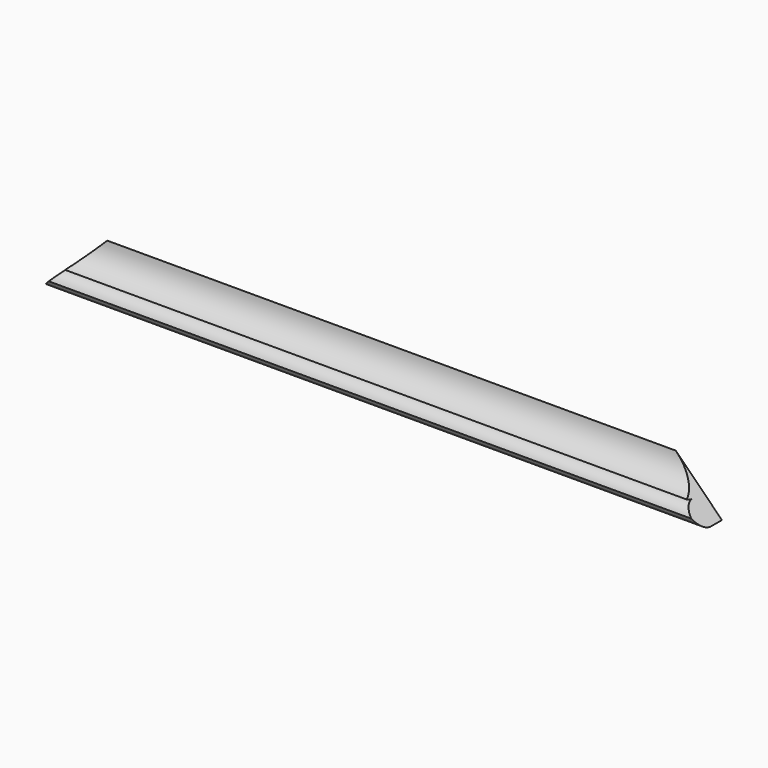
from build123d import *

# Parameters (mm, degrees)
SKETCH008_W          = 358
SKETCH008_H          = 25
PAD004_DEPTH         = 15
FRAME45CUT003_SIZE   = 24.99
ROUTERPATTERN_R      = 15
ROUTER_DEPTH         = 179.001
ROUTER_DEPTH_BACK    = 179.001
ROUTER004_DEPTH      = 179.001
ROUTER004_DEPTH_BACK = 179.001
ROUTER010_DEPTH      = 179.001
ROUTER010_DEPTH_BACK = 179.001


with BuildPart() as part:
    # Sketch008 → Pad004 (new body)
    with BuildSketch(Plane(origin=(21, -33, 23), x_dir=(1, 0, 0), z_dir=(0, -1, 0))):
        with Locations((179, 12.5)):
            Rectangle(SKETCH008_W, SKETCH008_H)
    extrude(amount=-PAD004_DEPTH)

    # Frame45Cut003
    frame45cut003_edges = [part.edges().sort_by_distance(p)[0] for p in [
        (21, -25.5, 48),
        (379, -25.5, 48),
    ]]
    chamfer(frame45cut003_edges, length=FRAME45CUT003_SIZE)

    # routerPattern → router (cut, two sides)
    with BuildSketch(Plane(origin=(200, -33, 48), x_dir=(0, 0, -1), z_dir=(1, 0, 0))) as router_sk:
        Circle(ROUTERPATTERN_R)
    extrude(amount=-ROUTER_DEPTH, mode=Mode.SUBTRACT)
    extrude(router_sk.sketch, amount=ROUTER_DEPTH_BACK, mode=Mode.SUBTRACT)

    # routerPattern004 → router004 (cut, two sides)
    with BuildSketch(Plane(origin=(200, -33, 33), x_dir=(0, 0, -1), z_dir=(1, 0, 0))) as router004_sk:
        with BuildLine():
            ThreePointArc((7.500016, 0), (2.19671, -2.196698), (0, -7.5))
            ThreePointArc((0, -7.5), (-2.19671, -2.196698), (-7.500016, 0))
            ThreePointArc((-7.500016, 0), (-2.196704, 2.196704), (0, 7.500016))
            ThreePointArc((0, 7.500016), (2.196704, 2.196704), (7.500016, 0))
        make_face()
    extrude(amount=-ROUTER004_DEPTH, mode=Mode.SUBTRACT)
    extrude(router004_sk.sketch, amount=ROUTER004_DEPTH_BACK, mode=Mode.SUBTRACT)

    # routerPattern010 → router010 (cut, two sides)
    with BuildSketch(Plane(origin=(200, -33, 23), x_dir=(0, 0, -1), z_dir=(1, 0, 0))) as router010_sk:
        with BuildLine():
            ThreePointArc((7.500025, 0), (2.196716, -2.196698), (0, -7.5))
            ThreePointArc((0, -7.5), (-2.196716, -2.196698), (-7.500025, 0))
            ThreePointArc((-7.500025, 0), (-2.196707, 2.196707), (0, 7.500025))
            ThreePointArc((0, 7.500025), (2.196707, 2.196707), (7.500025, 0))
        make_face()
    extrude(amount=-ROUTER010_DEPTH, mode=Mode.SUBTRACT)
    extrude(router010_sk.sketch, amount=ROUTER010_DEPTH_BACK, mode=Mode.SUBTRACT)


solid = part.part
